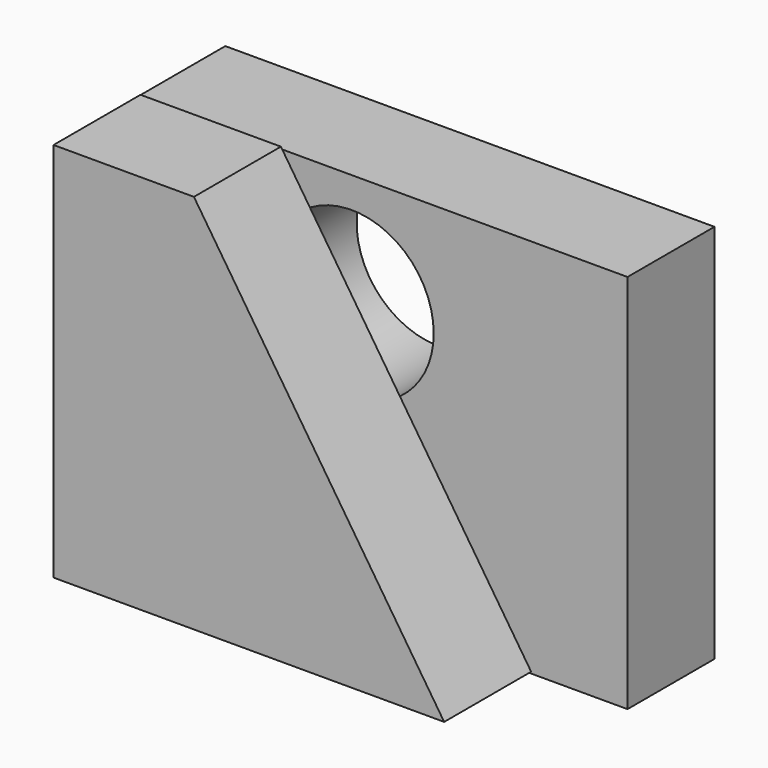
from build123d import *

# Parameters (mm, degrees)
F0_W     = 114.3
F0_H     = 88.9
F1_DEPTH = 25.4
F3_DEPTH = 25.4
F4_R     = 19.164267
F5_DEPTH = 50.8


with BuildPart() as f1:
    # F0 (on Front) → F1 (new body)
    with BuildSketch(Plane.XZ):
        with Locations((-16.952309, -7.416258)):
            Rectangle(F0_W, F0_H)
    extrude(amount=-F1_DEPTH)

    # F2 (on Front) → F3 (join)
    with BuildSketch(Plane.XZ):
        Polygon((17.68492, -51.485937), (-40.78941, 37.509143), (-73.592082, 37.509143), (-73.592082, -51.485937), align=None)
    extrude(amount=F3_DEPTH)

    # F4 (on Front) → F5 (cut)
    with BuildSketch(Plane.XZ):
        with Locations((-24.245456, 10.696524)):
            Circle(F4_R)
    extrude(amount=-F5_DEPTH, mode=Mode.SUBTRACT)


solid = f1.part
